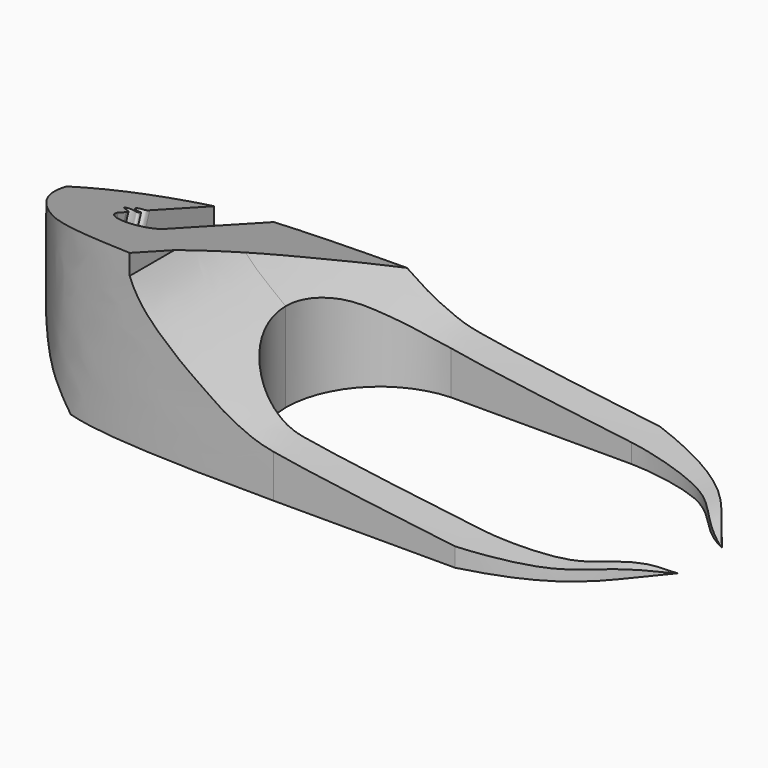
from build123d import *

# Parameters (mm, degrees)
PAD018_DEPTH    = 30
PAD019_DEPTH    = 30
POCKET031_DEPTH = 20
POCKET032_DEPTH = 21.5
POCKET033_DEPTH = 16
POCKET034_DEPTH = 56


with BuildPart() as part:
    # Sketch048 → Pad018 (new body)
    with BuildSketch(Plane.XY):
        with BuildLine():
            Line((-9.58395, 13.5), (16.310229, 13.5))
            add(Edge.make_bspline(
                [(16.310229, 13.5), (18.310228, 13.501031), (30.261282, 12.300449), (32.780455, 5.78943), (36.883, 3.99632)],
                knots=[0, 0, 0, 0, 0.5, 1, 1, 1, 1], degree=3))
            add(Edge.make_bspline(
                [(16.418763, 18.5), (30.0728, 14.9629), (31.610432, 10.059164), (36.883, 3.99632)],
                knots=[0, 0, 0, 0, 1, 1, 1, 1], degree=3))
            Line((16.418763, 18.5), (-9.475416, 18.5))
            add(Edge.make_bspline(
                [(-9.475416, 18.5), (-37.3482, 18.4799), (-45.9357, 14.9697), (-52.392, 5.81805), (-53.9591, 0)],
                knots=[0, 0, 0, 0, 0.5, 1, 1, 1, 1], degree=3))
            Line((-53.9591, 0), (-22.519398, 0))
            ThreePointArc((-22.519398, 0), (-18.763562, 9.34848), (-9.58395, 13.5))
        make_face()
    extrude(amount=PAD018_DEPTH)

    # MirroredSketch004 → Pad019 (join)
    with BuildSketch(Plane.XY):
        with BuildLine():
            ThreePointArc((-22.509759, 0), (-18.649206, -9.4526), (-9.275089, -13.5))
            Line((-9.275089, -13.5), (16.779349, -13.5))
            add(Edge.make_bspline(
                [(16.779349, -13.5), (18.779349, -13.501566), (30.261282, -12.300449), (32.780455, -5.78943), (36.883, -3.99632)],
                knots=[0, 0, 0, 0, 0.5, 1, 1, 1, 1], degree=3))
            add(Edge.make_bspline(
                [(16.579022, -18.5), (30.0728, -14.9629), (31.610432, -10.059164), (36.883, -3.99632)],
                knots=[0, 0, 0, 0, 1, 1, 1, 1], degree=3))
            Line((16.579022, -18.5), (-9.475416, -18.5))
            add(Edge.make_bspline(
                [(-9.475416, -18.5), (-37.3482, -18.4799), (-45.9357, -14.9697), (-52.392, -5.81805), (-53.9591, 0)],
                knots=[0, 0, 0, 0, 0.5, 1, 1, 1, 1], degree=3))
            Line((-53.9591, 0), (-22.509759, 0))
        make_face()
    extrude(amount=PAD019_DEPTH)

    # Sketch049 → Pocket031 (cut, symmetric)
    with BuildSketch(Plane.XZ):
        with BuildLine():
            add(Edge.make_bspline(
                [(-24.537006, -5.962733), (-33.96579, -2.450956), (-37.868225, -2.280037), (-40.937222, 0.666897), (-44.086807, 3.297989), (-45.974102, 4.707775), (-47.974335, 7.132409), (-49.297935, 8.240911), (-50.281666, 9.563862), (-51.122517, 10.871743), (-51.959799, 11.78326), (-52.801899, 13.00826), (-53.108199, 14.38636), (-54.026699, 16.472837)],
                knots=[0, 0, 0, 0, 0.090909, 0.181818, 0.272727, 0.363636, 0.454545, 0.545455, 0.636364, 0.727273, 0.818182, 0.909091, 1, 1, 1, 1], degree=3))
            Line((-54.026699, 16.472837), (-67.115806, 16.580737))
            Line((-67.115806, 16.580737), (-67.115806, -12.040442))
            Line((-67.115806, -12.040442), (-30.519064, -12.040442))
            Line((-30.519064, -12.040442), (-24.537006, -5.962733))
        make_face()
    extrude(amount=POCKET031_DEPTH, both=True, mode=Mode.SUBTRACT)

    # Sketch050 → Pocket032 (cut, symmetric)
    with BuildSketch(Plane.XZ):
        with BuildLine():
            add(Edge.make_bspline(
                [(37.444431, 0), (36.529029, -0.034935), (34.789729, 0.788918), (31.677429, 1.567008), (28.075538, 1.449184), (22.701629, 2.017733), (12.650452, 3.118566), (-9.404895, 5.984315), (-12.561653, 6.893496), (-16.923237, 8.943251), (-19.787928, 11.091768), (-22.070726, 12.43459), (-23.861156, 13.822172), (-29.26718, 18.092406), (-30.571993, 21.281189)],
                knots=[0, 0, 0, 0, 0.083333, 0.166667, 0.25, 0.333333, 0.416667, 0.5, 0.583333, 0.666667, 0.75, 0.833333, 0.916667, 1, 1, 1, 1], degree=3))
            Line((-30.571993, 21.281189), (-30.571993, 45.329951))
            Line((-30.571993, 45.329951), (49.525864, 45.329951))
            Line((49.525864, 45.329951), (49.525864, 21.336774))
            Line((49.525864, 21.336774), (49.525864, 7.285458))
            Line((49.525864, 7.285458), (37.444431, 0))
        make_face()
    extrude(amount=POCKET032_DEPTH, both=True, mode=Mode.SUBTRACT)

    # Sketch051 → Pocket033 (cut)
    with BuildSketch(Plane(origin=(-41, 0, 26), x_dir=(1, 0, 0), z_dir=(0, 0.34202, 0.939693))):
        with BuildLine():
            Line((-3.186096, 1.22254), (-3.186096, -0.29798))
            ThreePointArc((-3.186096, -0.29798), (0.149152, -3.196522), (3.2, 0))
            Line((3.2, 0), (3.2, 1.520521))
            Line((3.2, 1.520521), (3.2, 23.421683))
            Line((3.2, 23.421683), (-3.3, 23.423907))
            Line((-3.3, 23.423907), (-3.3, 5.856392))
            add(Edge.make_bspline(
                [(-4.775932, 3.087166), (-4.33493, 3.35485), (-4.051164, 3.330951), (-3.7795, 3.305968), (-3.349396, 3.157906), (-3.245846, 3.064339), (-3.061377, 2.994419), (-2.972856, 2.977889), (-2.794626, 2.994684), (-2.646077, 3.432949), (-2.828362, 3.561935), (-3.029694, 3.55577), (-3.205435, 3.624091), (-3.697853, 3.815224), (-4.092663, 4.026405), (-4.257935, 4.333984), (-4.313023, 4.531395), (-4.267117, 4.737976), (-4.262524, 4.884888), (-3.883443, 5.109722), (-3.722657, 5.188738), (-3.612278, 5.191375), (-3.509907, 5.187067), (-3.431781, 5.249228), (-3.310894, 5.441842), (-3.3, 5.856392)],
                knots=[0, 0, 0, 0, 0.043478, 0.086957, 0.130435, 0.173913, 0.217391, 0.26087, 0.304348, 0.347826, 0.391304, 0.434783, 0.478261, 0.521739, 0.565217, 0.608696, 0.652174, 0.695652, 0.73913, 0.782609, 0.826087, 0.869565, 0.913043, 0.956522, 1, 1, 1, 1], degree=3))
            Line((-4.775932, 3.087166), (-4.784031, 3.061035))
            add(Edge.make_bspline(
                [(-3.186096, 1.22254), (-3.244116, 1.846916), (-3.506081, 2.061211), (-3.66875, 2.114041), (-3.847514, 2.215016), (-4.058549, 2.36884), (-4.181769, 2.462694), (-4.470432, 2.580053), (-4.86222, 2.93836), (-4.784031, 3.061035)],
                knots=[0, 0, 0, 0, 0.142857, 0.285714, 0.428571, 0.571429, 0.714286, 0.857143, 1, 1, 1, 1], degree=3))
        make_face()
    extrude(amount=-POCKET033_DEPTH, mode=Mode.SUBTRACT)

    # Sketch052 → Pocket034 (cut)
    with BuildSketch(Plane(origin=(-55, 0, -10), x_dir=(0, -1, 0), z_dir=(-1, 0, 0))):
        Polygon((18.068614, 43.244517), (-18.63706, 43.244517), (-18.63706, 20.95504), (18.068614, 34.249554), align=None)
    extrude(amount=-POCKET034_DEPTH, mode=Mode.SUBTRACT)


with BuildPart() as part_1:
    # Body010 placement: moved
    add(part.part.moved(Location((0, 0, 3))))


solid = part_1.part
